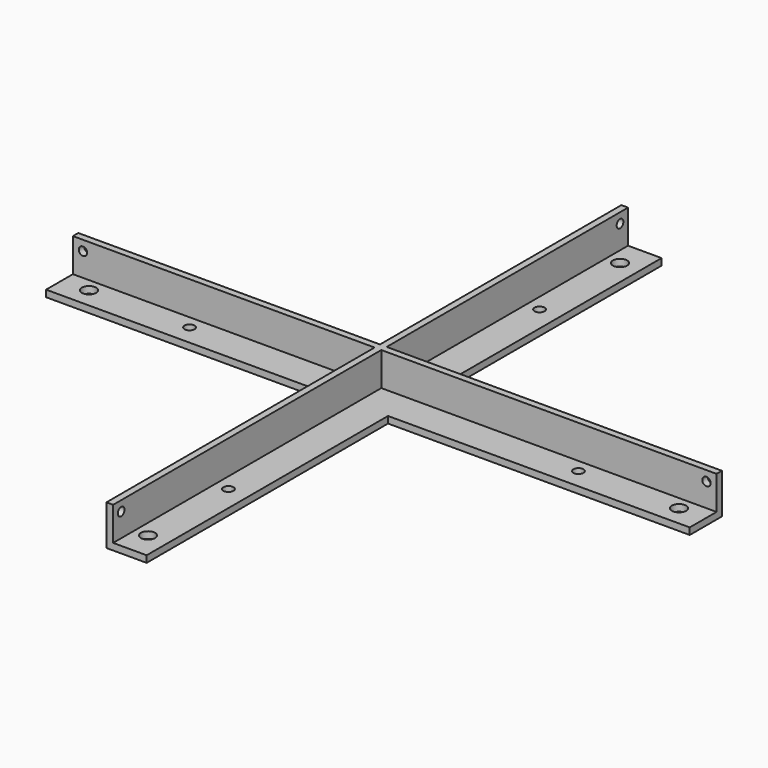
from build123d import *

# Parameters (mm, degrees)
F1_DEPTH  = 304.8
F2_DEPTH  = 304.8
F4_DEPTH  = 304.8
F5_R      = 6.7437
F6_DEPTH  = 6.351
F7_R      = 3.9751
F8_DEPTH  = 292.101
F9_R      = 3.9751
F10_DEPTH = 292.101
F11_R     = 4.7625
F12_DEPTH = 6.351


with BuildPart() as f1:
    # F0 (on Front) → F1 (new body, symmetric)
    with BuildSketch(Plane.XZ):
        Polygon((-12.7, 38.1), (-19.05, 38.1), (-19.05, 0), (19.05, 0), (19.05, 6.35), (-12.7, 6.35), align=None)
    extrude(amount=F1_DEPTH, both=True)

    # F0 (on Front) → F2 (join, symmetric)
    with BuildSketch(Plane.XZ):
        Polygon((-12.7, 38.1), (-19.05, 38.1), (-19.05, 0), (19.05, 0), (19.05, 6.35), (-12.7, 6.35), align=None)
    extrude(amount=F2_DEPTH, both=True)

    # F3 (on Right) → F4 (join, symmetric)
    with BuildSketch(Plane.YZ):
        Polygon((-19.05, 6.35), (-19.05, 0), (19.05, 0), (19.05, 38.1), (12.7, 38.1), (12.7, 6.35), align=None)
    extrude(amount=F4_DEPTH, both=True)

    # F5 (on face) → F6 (cut, through all)
    with BuildSketch(Plane.XY.offset(6.35)):
        with Locations((-279.4, 0)):
            Circle(F5_R)
        with Locations((0, -279.4)):
            Circle(F5_R)
        with Locations((0, 279.4)):
            Circle(F5_R)
        with Locations((279.4, 0)):
            Circle(F5_R)
    extrude(amount=-F6_DEPTH, mode=Mode.SUBTRACT)

    # F7 (on face) → F8 (cut, through all)
    with BuildSketch(Plane.YZ.offset(-12.7)):
        with Locations((295.275, 28.575)):
            Circle(F7_R)
        with Locations((-295.275, 28.575)):
            Circle(F7_R)
    extrude(amount=-F8_DEPTH, mode=Mode.SUBTRACT)

    # F9 (on face) → F10 (cut, through all)
    with BuildSketch(Plane.XZ.offset(-12.7)):
        with Locations((295.275, 28.575)):
            Circle(F9_R)
        with Locations((-295.275, 28.575)):
            Circle(F9_R)
    extrude(amount=-F10_DEPTH, mode=Mode.SUBTRACT)

    # F11 (on face) → F12 (cut, through all)
    with BuildSketch(Plane.XY.offset(6.35)):
        with Locations((0, 184.15)):
            Circle(F11_R)
        with Locations((184.15, 0)):
            Circle(F11_R)
        with Locations((0, -184.15)):
            Circle(F11_R)
        with Locations((-184.15, 0)):
            Circle(F11_R)
    extrude(amount=-F12_DEPTH, mode=Mode.SUBTRACT)


solid = f1.part
